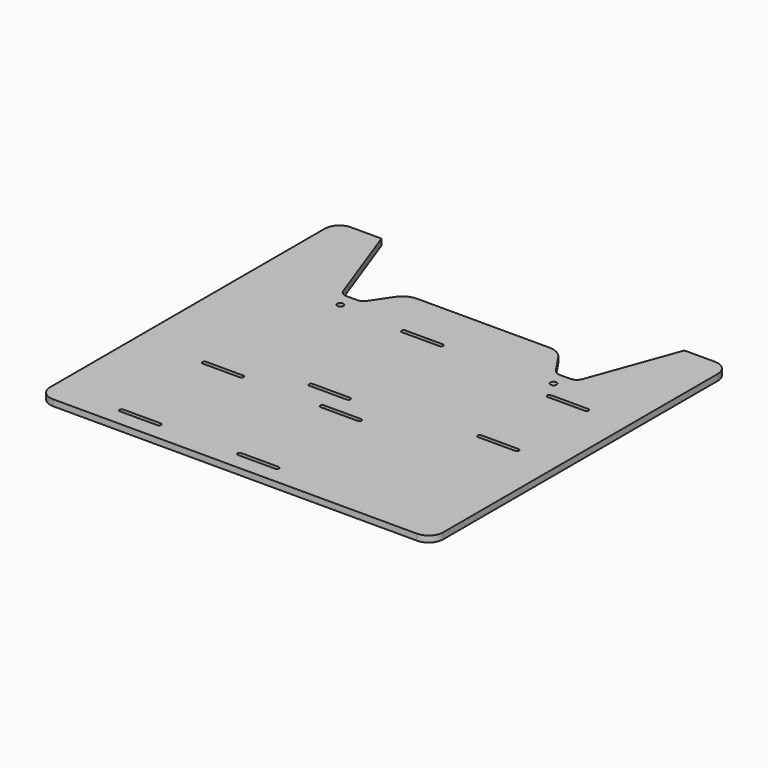
from build123d import *

# Parameters (mm, degrees)
F0_R     = 1.5
F1_DEPTH = 3


with BuildPart() as f1:
    # F0 (on Top) → F1 (new body)
    with BuildSketch(Plane.XY):
        with BuildLine():
            Line((0, 173), (0, 7))
            ThreePointArc((0, 7), (2.050253, 2.050253), (7, 0))
            Line((7, 0), (95, 0))
            Line((95, 0), (183, 0))
            ThreePointArc((183, 0), (187.949747, 2.050253), (190, 7))
            Line((190, 7), (190, 173))
            ThreePointArc((190, 173), (187.949747, 177.949747), (183, 180))
            Line((183, 180), (168.215657, 180))
            Line((168.215657, 180), (152.794937, 137.631919))
            ThreePointArc((152.794937, 137.631919), (151.330472, 135.723392), (149.036166, 135))
            Line((149.036166, 135), (143.963834, 135))
            ThreePointArc((143.963834, 135), (142.085948, 135.46821), (140.647684, 136.763228))
            Line((140.647684, 136.763228), (134.395322, 146.032736))
            ThreePointArc((134.395322, 146.032736), (131.159228, 148.946528), (126.933984, 150))
            Line((126.933984, 150), (95, 150))
            Line((95, 150), (63.066016, 150))
            ThreePointArc((63.066016, 150), (58.840772, 148.946528), (55.604678, 146.032736))
            Line((55.604678, 146.032736), (49.352316, 136.763228))
            ThreePointArc((49.352316, 136.763228), (47.914052, 135.46821), (46.036166, 135))
            Line((46.036166, 135), (40.963834, 135))
            ThreePointArc((40.963834, 135), (38.669528, 135.723392), (37.205063, 137.631919))
            Line((37.205063, 137.631919), (21.784343, 180))
            Line((21.784343, 180), (7, 180))
            ThreePointArc((7, 180), (2.050253, 177.949747), (0, 173))
        make_face()
        with BuildLine():
            Line((51, 8), (33, 8))
            ThreePointArc((33, 8), (32, 9), (33, 10))
            Line((33, 10), (51, 10))
            ThreePointArc((51, 10), (52, 9), (51, 8))
        make_face(mode=Mode.SUBTRACT)
        with BuildLine():
            Line((51, 58), (33, 58))
            ThreePointArc((33, 58), (32, 59), (33, 60))
            Line((33, 60), (51, 60))
            ThreePointArc((51, 60), (52, 59), (51, 58))
        make_face(mode=Mode.SUBTRACT)
        with BuildLine():
            Line((93.75, 69), (75.75, 69))
            ThreePointArc((75.75, 69), (74.75, 70), (75.75, 71))
            Line((75.75, 71), (93.75, 71))
            ThreePointArc((93.75, 71), (94.75, 70), (93.75, 69))
        make_face(mode=Mode.SUBTRACT)
        with BuildLine():
            Line((108, 8), (90, 8))
            ThreePointArc((90, 8), (89, 9), (90, 10))
            Line((90, 10), (108, 10))
            ThreePointArc((108, 10), (109, 9), (108, 8))
        make_face(mode=Mode.SUBTRACT)
        with BuildLine():
            Line((108, 58), (90, 58))
            ThreePointArc((90, 58), (89, 59), (90, 60))
            Line((90, 60), (108, 60))
            ThreePointArc((108, 60), (109, 59), (108, 58))
        make_face(mode=Mode.SUBTRACT)
        with BuildLine():
            Line((169.75, 76), (151.75, 76))
            ThreePointArc((151.75, 76), (150.75, 77), (151.75, 78))
            Line((151.75, 78), (169.75, 78))
            ThreePointArc((169.75, 78), (170.75, 77), (169.75, 76))
        make_face(mode=Mode.SUBTRACT)
        with Locations((43.5, 128)):
            Circle(F0_R, mode=Mode.SUBTRACT)
        with BuildLine():
            Line((93.75, 125), (75.75, 125))
            ThreePointArc((75.75, 125), (74.75, 126), (75.75, 127))
            Line((75.75, 127), (93.75, 127))
            ThreePointArc((93.75, 127), (94.75, 126), (93.75, 125))
        make_face(mode=Mode.SUBTRACT)
        with BuildLine():
            Line((169.75, 118), (151.75, 118))
            ThreePointArc((151.75, 118), (150.75, 119), (151.75, 120))
            Line((151.75, 120), (169.75, 120))
            ThreePointArc((169.75, 120), (170.75, 119), (169.75, 118))
        make_face(mode=Mode.SUBTRACT)
        with Locations((146.5, 128)):
            Circle(F0_R, mode=Mode.SUBTRACT)
    extrude(amount=F1_DEPTH)


solid = f1.part
